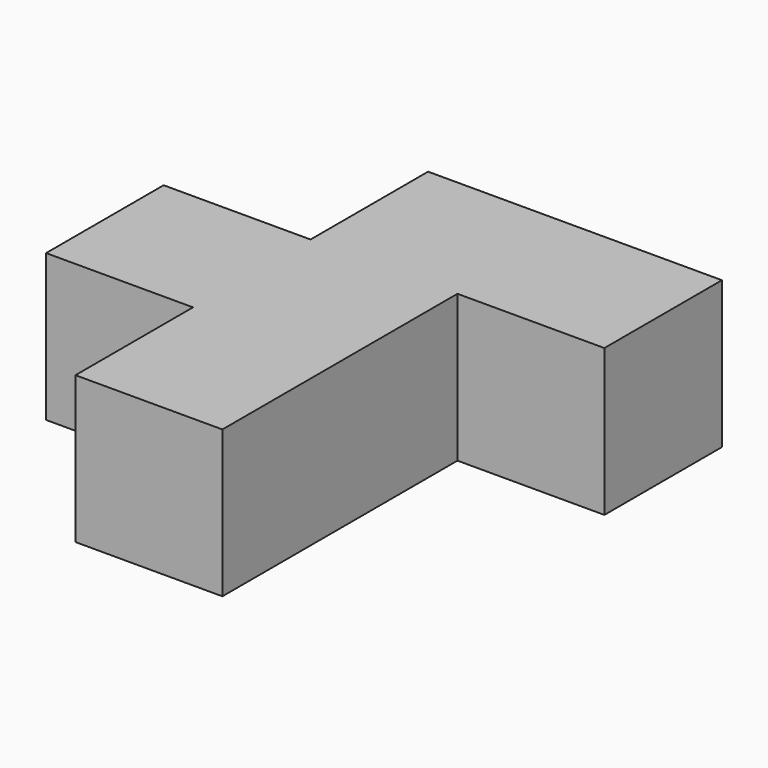
from build123d import *

# Parameters (mm, degrees)
PAD_DEPTH = 10


with BuildPart() as part:
    # Sketch → Pad (new body)
    with BuildSketch(Plane.XY):
        Polygon((-10, 30), (-10, 20), (-20, 20), (-20.000025, 10), (-10.000025, 10), (-10.000025, 0), (0, 0), (0, 20), (10, 20), (10, 30), align=None)
    extrude(amount=PAD_DEPTH)


solid = part.part
